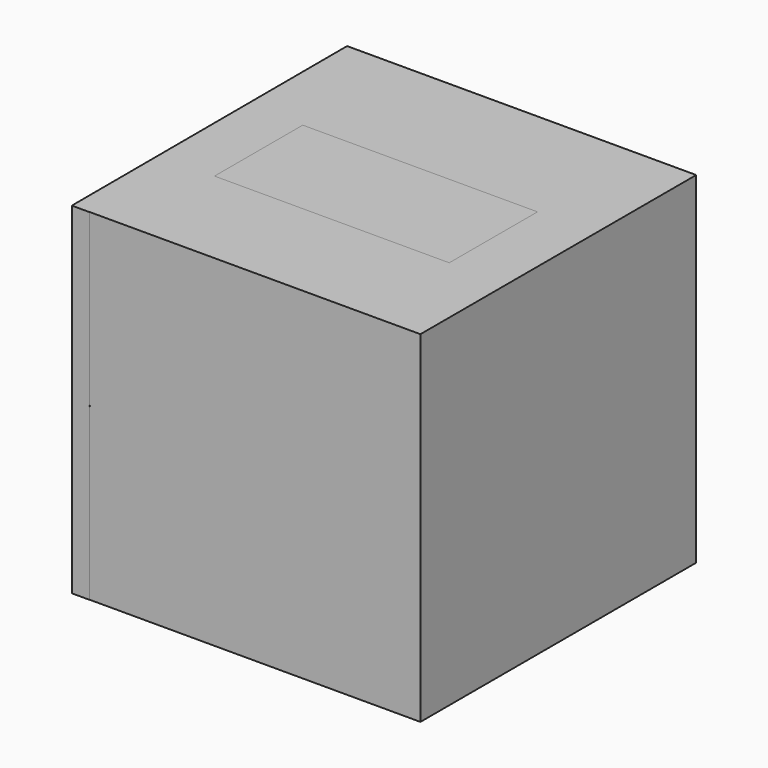
from build123d import *

# Parameters (mm, degrees)
F1_DEPTH       = 4.9610938877
F2_DEPTH       = 36.2845510244
F3_DEPTH       = 28.2983873039
F6_W           = 152.0289778709
F6_H           = 77.9667943716
F6_H_2         = 4.9610938877
F7_DEPTH       = 7.698206231
F5_W           = 89.3552458436
F5_H           = 4.9610938877
F8_DEPTH       = 8.6439009756
F4_W           = 151.4917612076
F4_H           = 78.0786424875
F4_H_2         = 4.9610938877
F9_DEPTH       = 8.7674502283
F11_DEPTH      = 7.6351538301
F14_DEPTH      = 8.318213746
F16_W          = 2.9331818223
F16_H          = 53.2167684287
F17_DEPTH      = 2.0480365492
F15_W          = 3.3681131899
F15_H          = 53.6021273583
F19_DEPTH      = 117.1940714121
F20_DEPTH      = 118.6289340258
F22_DEPTH      = 9.6406843513
F23_W          = 114.0664964914
F23_H          = 53.6021273583
F24_DEPTH      = 4.8288311809
F25_DEPTH      = 4.7923792154
F26_W          = 4.7755762935
F26_H          = 53.6021273583
F27_DEPTH      = 2.485699486
F27_DEPTH_BACK = 25.4


with BuildPart() as f1:
    # F0 (on Top) → F1 (new body)
    with BuildSketch(Plane.XY):
        Polygon((-76.1202722788, 75.8803635836), (-75.9412050247, -13.4747028351), (-75.9412050247, -75.611397624), (76.0877728462, -75.611397624), (76.0877728462, 75.8803635836), align=None)
        Polygon((-57.3181062937, -58.9580535889), (-57.3181062937, -13.4747028351), (-57.3181062937, 59.2270120978), (56.7483901978, 59.2270120978), (56.7483901978, -58.9580535889), align=None, mode=Mode.SUBTRACT)
    extrude(amount=F1_DEPTH)

    # F2 (add): a face of the model
    f2_faces = [f1.faces().sort_by_distance(p)[0] for p in [
        (-0.284858048, 59.2270120978, 2.4805469438),
    ]]
    extrude(f2_faces, amount=F2_DEPTH)

    # F3 (add): a face of the model
    f3_faces = [f1.faces().sort_by_distance(p)[0] for p in [
        (-0.284858048, -58.9580535889, 2.4805469438),
    ]]
    extrude(f3_faces, amount=F3_DEPTH)

    # F6 (on face) → F7 (join)
    with BuildSketch(Plane.XZ.offset(75.611397624)):
        with Locations((0.0732839108, -38.9833971858)):
            Rectangle(F6_W, F6_H)
        with Locations((0.0732839108, 2.4805469438)):
            Rectangle(F6_W, F6_H_2)
    extrude(amount=F7_DEPTH)

    # F5 (on face) → F8 (join)
    with BuildSketch(Plane(origin=(-75.9679031968, -0.1522394238, 0), x_dir=(0.0020039926, -0.999997992, 0), z_dir=(-0.999997992, -0.0020039926, 0))):
        Polygon((75.6161287427, 4.9610938877), (13.3224901628, 4.9610938877), (13.3224901628, 0), (-76.0327556807, 0), (-76.0327556807, -78.1766921282), (75.6161287427, -78.1766921282), align=None)
        with Locations((-31.355132759, 2.4805469438)):
            Rectangle(F5_W, F5_H)
    extrude(amount=F8_DEPTH)

    # F4 (on face) + F7_face (on face) → F9 (join)
    with BuildSketch(Plane.YZ.offset(76.0877728462)):
        with Locations((0.1344829798, -39.0393212438)):
            Rectangle(F4_W, F4_H)
        with Locations((0.1344829798, 2.4805469438)):
            Rectangle(F4_W, F4_H_2)
    with BuildSketch(Plane(origin=(76.0877728462, -36.4227471096, -15.4241620465), x_dir=(0, 1, 0), z_dir=(1, 0, 0))):
        Polygon((112.3031106931, 15.4241620465), (112.3031106931, 20.3852559342), (-46.8868567455, 20.3852559342), (-46.8868567455, -62.5426323251), (-39.1886505145, -62.5426323251), (-39.1886505145, 15.4241620465), align=None)
    extrude(amount=F9_DEPTH)

    # F11 (add): a face of the model
    f11_faces = [f1.faces().sort_by_distance(p)[0] for p in [
        (-80.2005689479, -75.7770022516, -36.6093330754),
    ]]
    extrude(f11_faces, amount=F11_DEPTH)

    # F12 (on face) + F13 (on face) + F8_face1 (on face) → F14 (join)
    with BuildSketch(Plane(origin=(0, 75.8803635836, 0), x_dir=(-1, 0, 0), z_dir=(0, 1, 0))):
        Polygon((-76.0877728462, 0), (76.1202722788, 0), (76.1202722788, 4.9610938877), (-84.8552230746, 4.9610938877), (-84.8552230746, -78.0786424875), (-76.0877728462, -78.0786424875), align=None)
    with BuildSketch(Plane(origin=(0, 75.8803635836, 0), x_dir=(-1, 0, 0), z_dir=(0, 1, 0))):
        Polygon((76.1202722788, 0), (0, 0), (-76.0877728462, 0), (-76.0877728462, -14.047597535), (76.2922167778, -14.047597535), (76.2922167778, -77.5474458933), (84.9216878414, -77.5474458933), (84.9216878414, 0), align=None)
    with BuildSketch(Plane(origin=(-80.4422140881, 75.8717024266, -36.6077991202), x_dir=(-0.999997992, -0.0020039926, 0), z_dir=(-0.0020039926, 0.999997992, 0))):
        Polygon((4.3219504878, 41.5688930079), (-4.3219504878, 41.5688930079), (-4.3219504878, 36.6077991202), (-4.3219504878, -41.5688930079), (4.3219504878, -41.5688930079), align=None)
    extrude(amount=F14_DEPTH, dir=(0, 1, 0))

    # F15 (on face) → F17, piece 2 (join)
    with BuildSketch(Plane(origin=(0, 0, 0), x_dir=(1, 0, 0), z_dir=(0, 0, -1))):
        with Locations((55.0643336028, 3.8586026058)):
            Rectangle(F15_W, F15_H)
    extrude(amount=-F17_DEPTH)

    # F18: F1 across face


with BuildPart() as f17:
    # F16 (on face) → F17 (new body)
    with BuildSketch(Plane(origin=(0, 0, 0), x_dir=(1, 0, 0), z_dir=(0, 0, -1))):
        with Locations((-55.6225664914, 3.7924619392)):
            Rectangle(F16_W, F16_H)
    extrude(amount=-F17_DEPTH)


with BuildPart() as f1_1:
    add(f1.part)
    add(f1.part.mirror(Plane(origin=(4.5231266223, -79.4604391402, -77.9667943716), x_dir=(1, 0, 0), z_dir=(0, 0, -1))))


with BuildPart() as f19:
    # F19 (new): a face of the model
    f19_faces = [f1_1.part.faces().sort_by_distance(p)[0] for p in [
        (53.3802770078, -3.8586026058, 1.0240182746),
    ]]
    extrude(f19_faces, amount=F19_DEPTH)


with BuildPart() as f20:
    # F20 (new): a face of the model
    f20_faces = [f1_1.part.faces().sort_by_distance(p)[0] for p in [
        (56.7483901978, -3.8586026058, 3.5045652185),
    ]]
    extrude(f20_faces, amount=F20_DEPTH)


with BuildPart() as f1_2:
    add(f1_1.part)

    # F21 (on face) → F22 (join)
    with BuildSketch(Plane(origin=(0, 0, -160.8946826309), x_dir=(1, 0, 0), z_dir=(0, 0, -1))):
        Polygon((-57.3181062937, 30.6596662849), (56.7483901978, 30.6596662849), (56.7483901978, 37.9734002054), (-57.26660043, 37.9734002054), align=None)
        Polygon((56.7483901978, 37.9734002054), (56.7483901978, 30.6596662849), (56.7483901978, -22.9424610734), (-57.3181062937, -22.9424610734), (-57.3181062937, -29.7861658037), (64.8588240147, -29.7861658037), (64.8588240147, 37.9734002054), align=None)
    extrude(amount=F22_DEPTH)


with BuildPart() as f24:
    # F23 (on face) → F24 (new body)
    with BuildSketch(Plane(origin=(0, 0, -170.5353669822), x_dir=(1, 0, 0), z_dir=(0, 0, -1))):
        with Locations((-0.284858048, 3.8586026058)):
            Rectangle(F23_W, F23_H)
    extrude(amount=F24_DEPTH)


with BuildPart() as f25:
    # F25 (new): a face of the model
    f25_faces = [f1_2.part.faces().sort_by_distance(p)[0] for p in [
        (-0.284858048, -32.0567547247, -170.5353669822),
    ]]
    extrude(f25_faces, amount=F25_DEPTH)


with BuildPart() as f1_3:
    add(f1_2.part)

    # F26 (on face) → F27 (join, two sides)
    with BuildSketch(Plane.XY.offset(-155.9335887432)) as f27_sk:
        with Locations((-54.9303181469, -3.8586026058)):
            Rectangle(F26_W, F26_H)
    extrude(amount=-F27_DEPTH)
    extrude(f27_sk.sketch, amount=F27_DEPTH_BACK)


solid = Compound([f17.part, f19.part, f20.part, f24.part, f25.part, f1_3.part])
